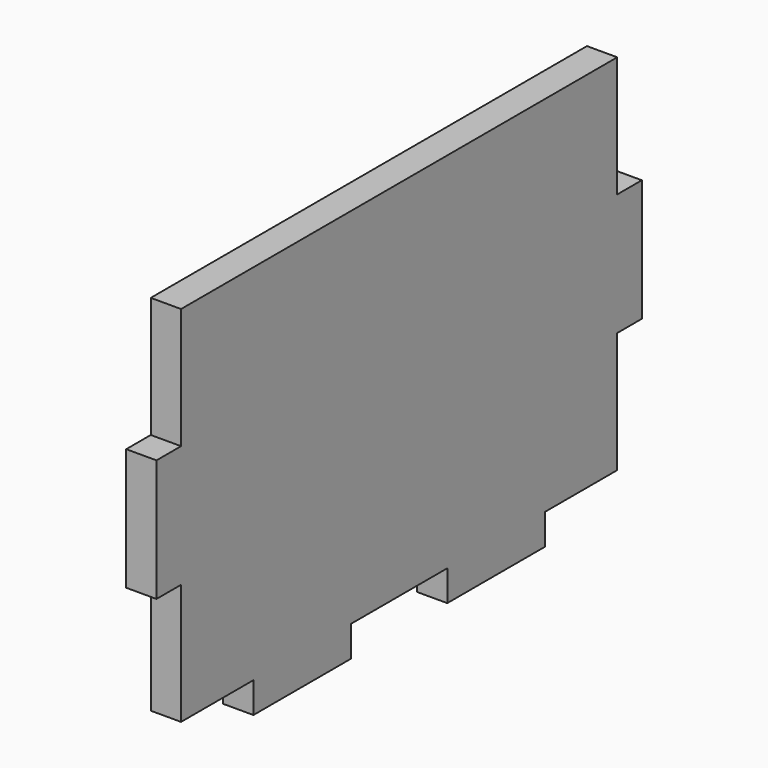
from build123d import *

# Parameters (mm, degrees)
F0_W     = 6.4389
F0_H     = 25.5778
F0_W_2   = 25.5778
F0_H_2   = 6.4389
F1_DEPTH = 6.35


with BuildPart() as f1:
    # F0 (on Right) → F1 (new body)
    with BuildSketch(Plane.YZ):
        Polygon((0, 25.3111), (0, 0), (18.9611, 0), (44.5389, 0), (69.7611, 0), (95.3389, 0), (114.3, 0), (114.3, 25.3111), (114.3, 50.8889), (114.3, 76.2), (0, 76.2), (0, 50.8889), align=None)
        with Locations((-3.21945, 38.1)):
            Rectangle(F0_W, F0_H)
        with Locations((31.75, -3.21945)):
            Rectangle(F0_W_2, F0_H_2)
        with Locations((82.55, -3.21945)):
            Rectangle(F0_W_2, F0_H_2)
        with Locations((117.51945, 38.1)):
            Rectangle(F0_W, F0_H)
    extrude(amount=F1_DEPTH)


solid = f1.part
